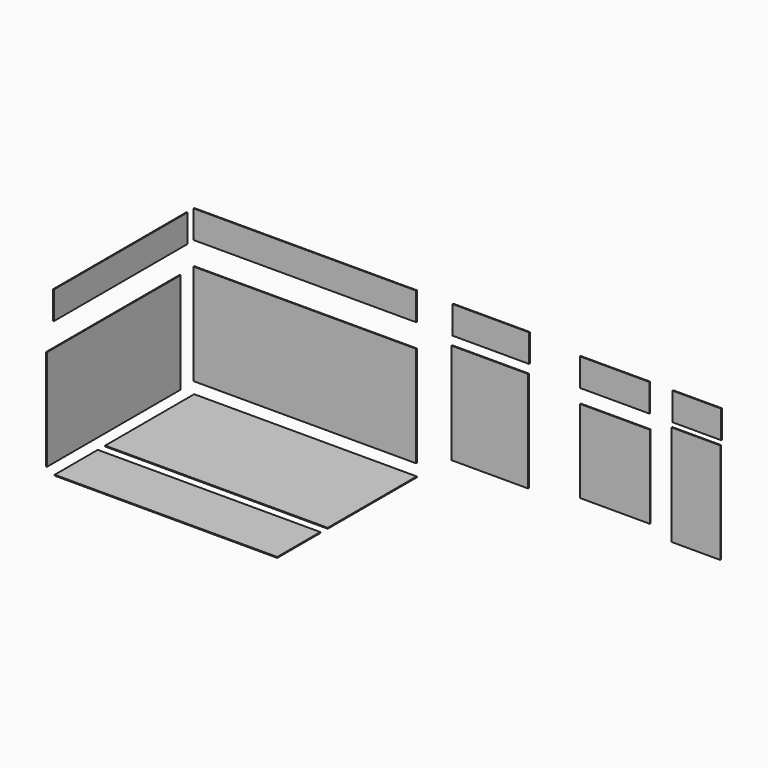
from build123d import *

# Parameters (mm, degrees)
F0_W      = 2438.4
F0_H      = 1219.2
F1_DEPTH  = 9.525
F2_W      = 2438.4
F2_H      = 590.55
F3_DEPTH  = 9.525
F4_W      = 2438.4
F4_H      = 1104.9
F5_DEPTH  = 9.525
F6_W      = 1828.8
F6_H      = 1104.9
F7_DEPTH  = 9.525
F8_W      = 2438.4
F8_H      = 304.8
F9_DEPTH  = 9.525
F10_W     = 1828.8
F10_H     = 304.8
F11_DEPTH = 9.525
F12_W     = 838.2
F12_H     = 1104.9
F13_DEPTH = 9.525
F14_W     = 762
F14_H     = 908.05
F15_DEPTH = 9.525
F16_W     = 762
F16_H     = 304.8
F17_DEPTH = 9.525
F18_W     = 838.2
F18_H     = 304.8
F19_DEPTH = 9.525
F20_W     = 533.4
F20_H     = 304.8
F21_DEPTH = 9.525
F22_W     = 533.4
F22_H     = 1104.9
F23_DEPTH = 9.525


with BuildPart() as f1:
    # F0 (on Top) → F1 (new body)
    with BuildSketch(Plane.XY):
        with Locations((1219.2, -609.6)):
            Rectangle(F0_W, F0_H)
    extrude(amount=F1_DEPTH)


with BuildPart() as f3:
    # F2 (on Top) → F3 (new body)
    with BuildSketch(Plane.XY):
        with Locations((1219.2, -1615.471365)):
            Rectangle(F2_W, F2_H)
    extrude(amount=F3_DEPTH)


with BuildPart() as f5:
    # F4 (on Front) → F5 (new body)
    with BuildSketch(Plane.XZ):
        with Locations((1219.2, 691.839575)):
            Rectangle(F4_W, F4_H)
    extrude(amount=F5_DEPTH)


with BuildPart() as f7:
    # F6 (on Right) → F7 (new body)
    with BuildSketch(Plane.YZ):
        with Locations((-1113.928136, 688.792892)):
            Rectangle(F6_W, F6_H)
    extrude(amount=F7_DEPTH)


with BuildPart() as f9:
    # F8 (on Front) → F9 (new body)
    with BuildSketch(Plane.XZ):
        with Locations((1219.2, 1652.895459)):
            Rectangle(F8_W, F8_H)
    extrude(amount=F9_DEPTH)


with BuildPart() as f11:
    # F10 (on Right) → F11 (new body)
    with BuildSketch(Plane.YZ):
        with Locations((-1018.56026, 1655.231595)):
            Rectangle(F10_W, F10_H)
    extrude(amount=F11_DEPTH)


with BuildPart() as f13:
    # F12 (on Front) → F13 (new body)
    with BuildSketch(Plane.XZ):
        with Locations((3246.746566, 848.290026)):
            Rectangle(F12_W, F12_H)
    extrude(amount=F13_DEPTH)


with BuildPart() as f15:
    # F14 (on Front) → F15 (new body)
    with BuildSketch(Plane.XZ):
        with Locations((4617.923316, 842.823684)):
            Rectangle(F14_W, F14_H)
    extrude(amount=F15_DEPTH)


with BuildPart() as f17:
    # F16 (on Front) → F17 (new body)
    with BuildSketch(Plane.XZ):
        with Locations((4614.331309, 1602.787137)):
            Rectangle(F16_W, F16_H)
    extrude(amount=F17_DEPTH)


with BuildPart() as f19:
    # F18 (on Front) → F19 (new body)
    with BuildSketch(Plane.XZ):
        with Locations((3259.031773, 1652.993338)):
            Rectangle(F18_W, F18_H)
    extrude(amount=F19_DEPTH)


with BuildPart() as f21:
    # F20 (on Front) → F21 (new body)
    with BuildSketch(Plane.XZ):
        with Locations((5514.90593, 1601.693132)):
            Rectangle(F20_W, F20_H)
    extrude(amount=F21_DEPTH)


with BuildPart() as f23:
    # F22 (on Front) → F23 (new body)
    with BuildSketch(Plane.XZ):
        with Locations((5504.784346, 843.618007)):
            Rectangle(F22_W, F22_H)
    extrude(amount=F23_DEPTH)


solid = Compound([f1.part, f3.part, f5.part, f7.part, f9.part, f11.part, f13.part, f15.part, f17.part, f19.part, f21.part, f23.part])
